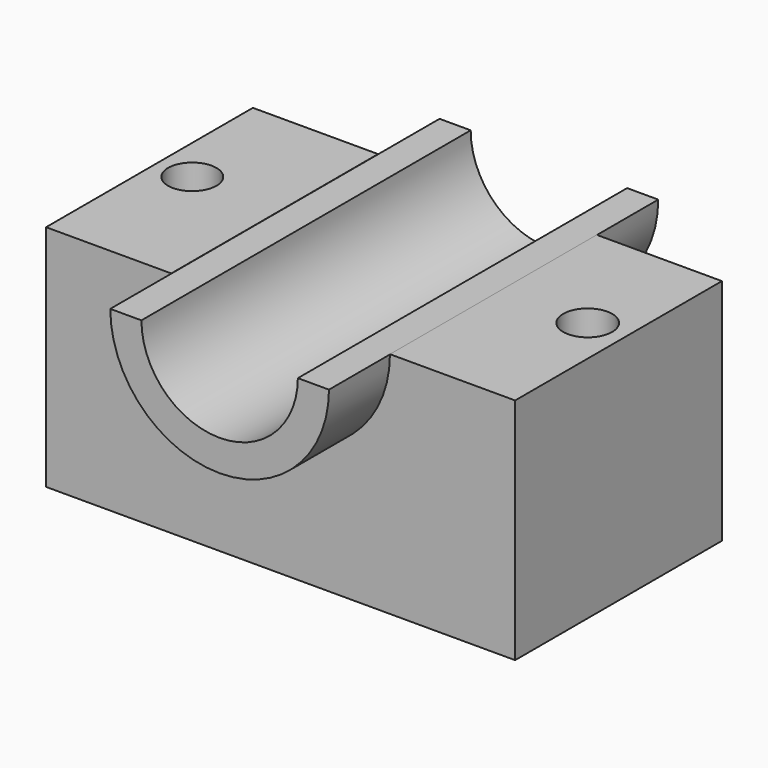
from build123d import *

# Parameters (mm, degrees)
F0_W          = 78.1559385359
F0_H          = 43.0713370442
F1_DEPTH      = 38.1
F2_R          = 18.2210344627
F3_DEPTH      = 55.88
F3_DEPTH_BACK = 12.7
F5_DEPTH      = 68.581
F7_DEPTH      = 68.581
F8_R          = 4.084024571
F8_R_2        = 4.0339119635
F9_DEPTH      = 38.101


with BuildPart() as f1:
    # F0 (on Top) → F1 (new body)
    with BuildSketch(Plane.XY):
        with Locations((2.2819247097, -1.4262031764)):
            Rectangle(F0_W, F0_H)
    extrude(amount=F1_DEPTH)

    # F2 (on face) → F3 (join, two sides)
    with BuildSketch(Plane.XZ.offset(22.9618716985)) as f3_sk:
        with Locations((2.2819247097, 38.1)):
            Circle(F2_R)
    extrude(amount=-F3_DEPTH)
    extrude(f3_sk.sketch, amount=F3_DEPTH_BACK)

    # F4 (on face) → F5 (cut, through all)
    with BuildSketch(Plane(origin=(0, 32.9181283015, 0), x_dir=(-1, 0, 0), z_dir=(0, 1, 0))):
        with BuildLine():
            ThreePointArc((-10.0195623191, 48.5884337417), (-8.1567843282, 26.4653834359), (10.7518114442, 38.1))
            ThreePointArc((10.7518114442, 38.1), (9.3526918544, 43.9748596185), (5.4557128998, 48.5884337417))
            Line((5.4557128998, 48.5884337417), (-10.0195623191, 48.5884337417))
        make_face()
        with BuildLine():
            Line((-10.0195623191, 48.5884337417), (5.4557128998, 48.5884337417))
            ThreePointArc((5.4557128998, 48.5884337417), (-2.2819247097, 51.1337361539), (-10.0195623191, 48.5884337417))
        make_face()
        with BuildLine():
            ThreePointArc((-10.0195623191, 48.5884337417), (-2.2819247097, 51.1337361539), (5.4557128998, 48.5884337417))
            Line((5.4557128998, 48.5884337417), (12.6177012767, 48.5884337417))
            ThreePointArc((12.6177012767, 48.5884337417), (-2.2819247097, 77.2969690713), (-17.1815506961, 48.5884337417))
            Line((-17.1815506961, 48.5884337417), (-10.0195623191, 48.5884337417))
        make_face()
    extrude(amount=-F5_DEPTH, mode=Mode.SUBTRACT)

    # F6 (on face) → F7 (cut, through all)
    with BuildSketch(Plane(origin=(0, 32.9181283015, 0), x_dir=(-1, 0, 0), z_dir=(0, 1, 0))):
        with BuildLine():
            ThreePointArc((15.9390762318, 38.0650488792), (-2.2819247097, 57.0049656909), (-20.5029256512, 38.0650488792))
            Line((-20.5029256512, 38.0650488792), (15.9390762318, 38.0650488792))
        make_face()
    extrude(amount=-F7_DEPTH, mode=Mode.SUBTRACT)

    # F8 (on face) → F9 (cut, through all)
    with BuildSketch(Plane.XY.offset(38.1)):
        with Locations((35.0845977664, 0)):
            Circle(F8_R)
        with Locations((-30.8059900999, 0)):
            Circle(F8_R_2)
    extrude(amount=-F9_DEPTH, mode=Mode.SUBTRACT)


solid = f1.part
